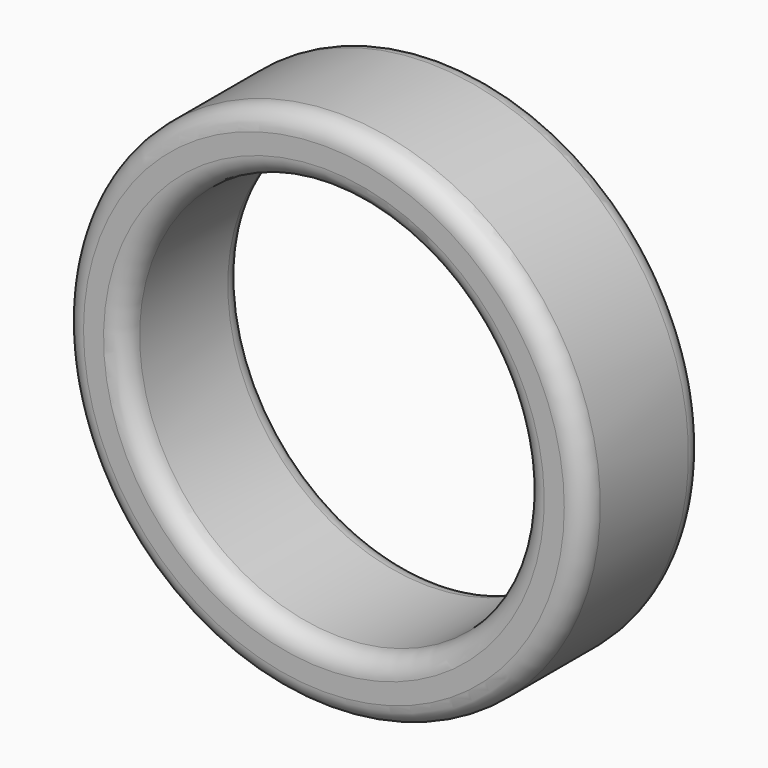
from build123d import *


with BuildPart() as f1:
    # F0 (on Right) → F1 (revolve)
    with BuildSketch(Plane.YZ):
        with BuildLine():
            ThreePointArc((189.750242, 19.945681), (174.871267, 55.866706), (138.950242, 70.745681))
            Line((138.950242, 70.745681), (-140.449758, 70.745681))
            ThreePointArc((-140.449758, 70.745681), (-176.370782, 55.866706), (-191.249758, 19.945681))
            Line((-191.249758, 19.945681), (-191.249758, -30.854319))
            ThreePointArc((-191.249758, -30.854319), (-176.370782, -66.775343), (-140.449758, -81.654319))
            Line((-140.449758, -81.654319), (138.950242, -81.654319))
            ThreePointArc((138.950242, -81.654319), (174.871267, -66.775343), (189.750242, -30.854319))
            Line((189.750242, -30.854319), (189.750242, 19.945681))
        make_face()
    revolve(axis=Axis((0, -0.749758, -589.654319), (0, -1, 0)))


solid = f1.part
